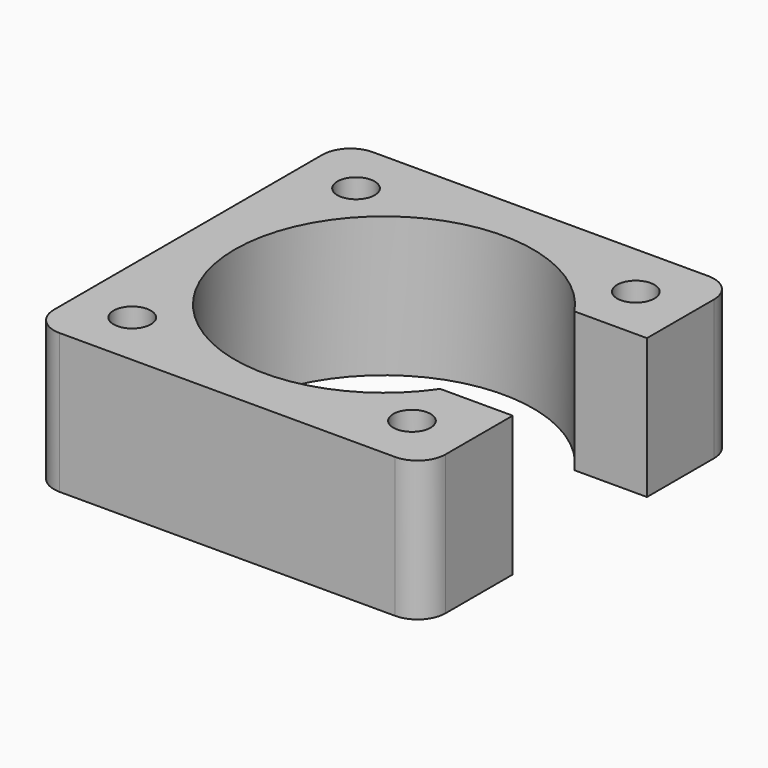
from build123d import *

# Parameters (mm, degrees)
F0_R     = 2
F0_R_2   = 16
F1_DEPTH = 15
F2_W     = 31.491399
F2_H     = 18
F3_DEPTH = 15.001


with BuildPart() as f1:
    # F0 (on Top) → F1 (new body)
    with BuildSketch(Plane.XY):
        with BuildLine():
            Line((-18, -21), (18, -21))
            ThreePointArc((18, -21), (20.12132, -20.12132), (21, -18))
            Line((21, -18), (21, 18))
            ThreePointArc((21, 18), (20.12132, 20.12132), (18, 21))
            Line((18, 21), (-18, 21))
            ThreePointArc((-18, 21), (-20.12132, 20.12132), (-21, 18))
            Line((-21, 18), (-21, -18))
            ThreePointArc((-21, -18), (-20.12132, -20.12132), (-18, -21))
        make_face()
        with Locations((-15, -15)):
            Circle(F0_R, mode=Mode.SUBTRACT)
        with Locations((15, -15)):
            Circle(F0_R, mode=Mode.SUBTRACT)
        with Locations((-15, 15)):
            Circle(F0_R, mode=Mode.SUBTRACT)
        Circle(F0_R_2, mode=Mode.SUBTRACT)
        with Locations((15, 15)):
            Circle(F0_R, mode=Mode.SUBTRACT)
    extrude(amount=F1_DEPTH)

    # F2 (on Top) → F3 (cut, through all)
    with BuildSketch(Plane.XY):
        with Locations((15.745699, 0)):
            Rectangle(F2_W, F2_H)
    extrude(amount=F3_DEPTH, mode=Mode.SUBTRACT)


solid = f1.part
